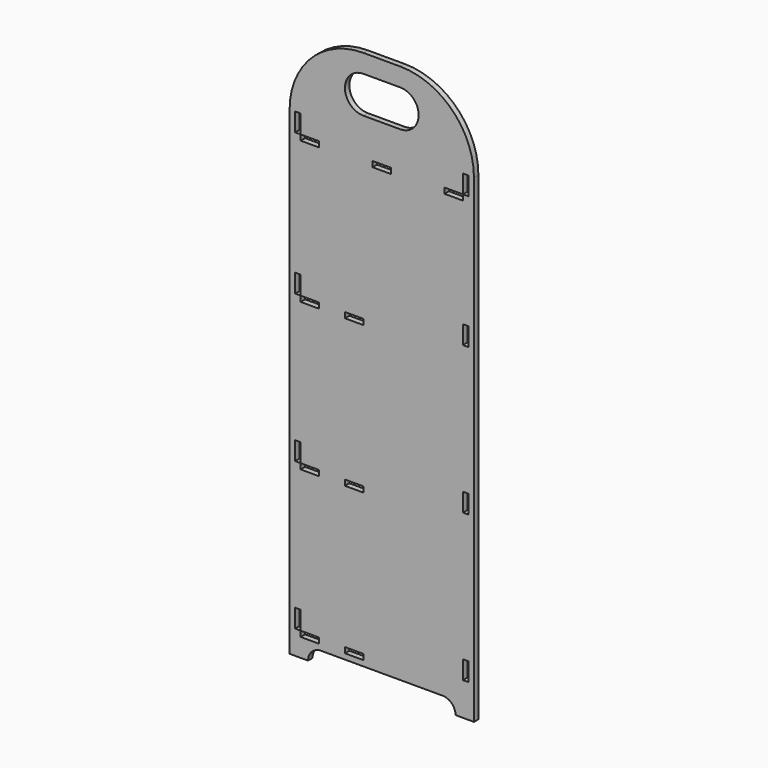
from build123d import *

# Parameters (mm, degrees)
PAD005_DEPTH           = 3
SKETCH009_W            = 3
SKETCH009_H            = 10
SKETCH009_W_2          = 10
SKETCH009_H_2          = 3
POCKET003_DEPTH        = 3
LINEARPATTERN003_COUNT = 3
LINEARPATTERN003_PITCH = 80
SKETCH011_W            = 10
SKETCH011_H            = 3
SKETCH011_W_2          = 3
SKETCH011_H_2          = 10
POCKET004_DEPTH        = 3


with BuildPart() as part:
    # Sketch008 → Pad005 (new body)
    with BuildSketch(Plane.XZ):
        with BuildLine():
            Line((-3, 260), (-3, 0))
            Line((-3, 0), (7, 0))
            ThreePointArc((14, 7), (9.050253, 4.949747), (7, 0))
            Line((14, 7), (80, 7))
            ThreePointArc((87, 0), (84.949747, 4.949747), (80, 7))
            Line((87, 0), (97, 0))
            Line((97, 0), (97, 260))
            ThreePointArc((97, 260), (85.284271, 288.284271), (57, 300))
            Line((57, 300), (37, 300))
            ThreePointArc((37, 300), (8.715729, 288.284271), (-3, 260))
        make_face()
        with BuildLine():
            ThreePointArc((37, 290), (27, 280), (37, 270))
            Line((37, 270), (57, 270))
            ThreePointArc((57, 270), (67, 280), (57, 290))
            Line((37, 290), (57, 290))
        make_face(mode=Mode.SUBTRACT)
    extrude(amount=PAD005_DEPTH)

    # Sketch009 → Pocket003 (cut)
    with BuildSketch(Plane.XZ.offset(3)):
        with Locations((1.5, 18)):
            Rectangle(SKETCH009_W, SKETCH009_H)
        with Locations((8, 11.5)):
            Rectangle(SKETCH009_W_2, SKETCH009_H_2)
        with Locations((32, 11.5)):
            Rectangle(SKETCH009_W_2, SKETCH009_H_2)
        with Locations((92.5, 23)):
            Rectangle(SKETCH009_W, SKETCH009_H)
    pocket003 = extrude(amount=-POCKET003_DEPTH, mode=Mode.SUBTRACT)

    # LinearPattern003: Pocket003 ×3
    with Locations(*[(0, 0, i * LINEARPATTERN003_PITCH) for i in range(1, LINEARPATTERN003_COUNT)]):
        add(pocket003, mode=Mode.SUBTRACT)

    # Sketch011 → Pocket004 (cut)
    with BuildSketch(Plane.XZ.offset(3)):
        with Locations((8, 248.5)):
            Rectangle(SKETCH011_W, SKETCH011_H)
        with Locations((47, 248.5)):
            Rectangle(SKETCH011_W, SKETCH011_H)
        with Locations((86, 248.5)):
            Rectangle(SKETCH011_W, SKETCH011_H)
        with Locations((1.5, 255)):
            Rectangle(SKETCH011_W_2, SKETCH011_H_2)
        with Locations((92.5, 255)):
            Rectangle(SKETCH011_W_2, SKETCH011_H_2)
    extrude(amount=-POCKET004_DEPTH, mode=Mode.SUBTRACT)


with BuildPart() as part_1:
    # Body005 placement: moved
    add(part.part.moved(Location((0, 0, 3))))


solid = part_1.part
